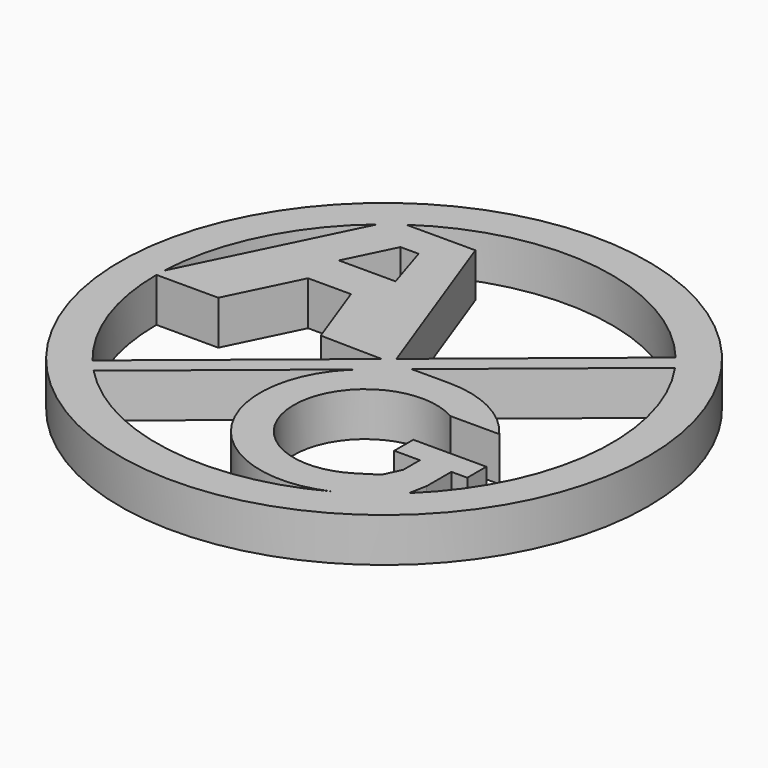
from build123d import *

# Parameters (mm, degrees)
F0_R     = 38.1
F1_DEPTH = 6.35


with BuildPart() as f1:
    # F0 (on Top) → F1 (new body)
    with BuildSketch(Plane.XY):
        Circle(F0_R)
        with BuildLine():
            ThreePointArc((15.55131, -28.95091), (-5.164822, -32.454938), (-23.769895, -22.693402))
            Line((-23.769895, -22.693402), (-0.210316, -3.420374))
            ThreePointArc((-0.210316, -3.420374), (-3.505561, -23.085334), (15.55131, -28.95091))
        make_face(mode=Mode.SUBTRACT)
        with BuildLine():
            ThreePointArc((-25.436396, -20.808367), (-30.950954, -11.04703), (-32.863329, 0))
            Line((-32.863329, 0), (-23.931819, 0))
            Line((-23.931819, 0), (-19.003591, 10.032758))
            Line((-19.003591, 10.032758), (-12.813644, 10.032758))
            Line((-12.813644, 10.032758), (-9.138282, 0))
            Line((-9.138282, 0), (-0.208399, -0.170482))
            Line((-0.208399, -0.170482), (-25.436396, -20.808367))
        make_face(mode=Mode.SUBTRACT)
        with BuildLine():
            Line((14.524804, -6.211956), (21.597452, -6.211956))
            ThreePointArc((21.597452, -6.211956), (16.228954, -1.642068), (9.372698, 0))
            Line((9.372698, 0), (3.97079, 0))
            Line((3.97079, 0), (26.953798, 18.801361))
            ThreePointArc((26.953798, 18.801361), (32.697008, -3.302136), (22.650294, -23.810977))
            Line((22.650294, -23.810977), (23.132257, -21.217383))
            Line((23.132257, -21.217383), (23.132257, -18.501105))
            Line((23.132257, -18.501105), (23.132257, -16.774114))
            Line((23.132257, -16.774114), (25.427608, -16.774114))
            Line((25.427608, -16.774114), (25.427608, -13.335001))
            Line((25.427608, -13.335001), (14.882846, -13.335001))
            Line((14.882846, -13.335001), (14.882846, -16.774114))
            Line((14.882846, -16.774114), (18.586745, -16.774114))
            Line((18.586745, -16.774114), (18.586745, -19.756014))
            Line((18.586745, -19.756014), (17.440139, -22.222528))
            Line((17.440139, -22.222528), (14.882846, -23.841026))
            ThreePointArc((14.882846, -23.841026), (-0.928609, -15.343981), (14.524804, -6.211956))
        make_face(mode=Mode.SUBTRACT)
        with BuildLine():
            Line((-21.142085, 25.159703), (-32.835392, 1.354775))
            ThreePointArc((-32.835392, 1.354775), (-29.496791, 14.489229), (-21.142085, 25.159703))
        make_face(mode=Mode.SUBTRACT)
        Polygon((-10.833315, 15.601111), (-19.003591, 15.601111), (-15.622538, 22.484169), (-12.999896, 22.484169), align=None, mode=Mode.SUBTRACT)
        with BuildLine():
            Line((25.436396, 20.808367), (1.077092, 0.881121))
            Line((1.077092, 0.881121), (-8.545147, 27.147268))
            Line((-8.545147, 27.147268), (-18.520914, 27.147268))
            ThreePointArc((-18.520914, 27.147268), (4.690564, 32.526866), (25.436396, 20.808367))
        make_face(mode=Mode.SUBTRACT)
    extrude(amount=F1_DEPTH)


solid = f1.part
